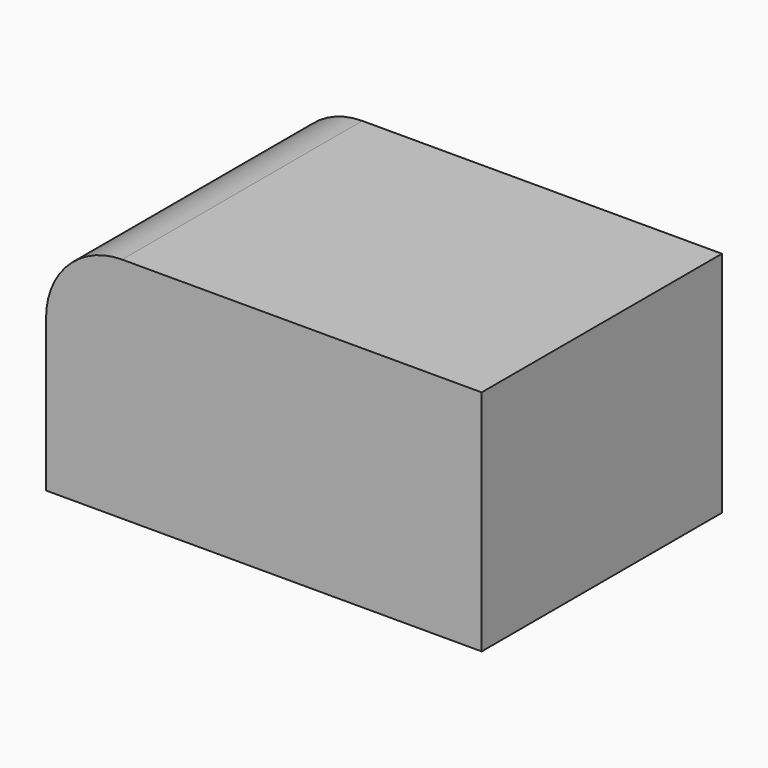
from build123d import *

# Parameters (mm, degrees)
F1_DEPTH = 100.33


with BuildPart() as f1:
    # F0 (on Front) → F1 (new body)
    with BuildSketch(Plane.XZ):
        with BuildLine():
            Line((33.960865, -16.626953), (-86.174272, -16.626953))
            ThreePointArc((-86.174272, -16.626953), (-104.134784, -24.066441), (-111.574272, -42.026953))
            Line((-111.574272, -42.026953), (-111.574272, -92.826953))
            Line((-111.574272, -92.826953), (33.960865, -92.826953))
            Line((33.960865, -92.826953), (33.960865, -16.626953))
        make_face()
    extrude(amount=-F1_DEPTH)


solid = f1.part
